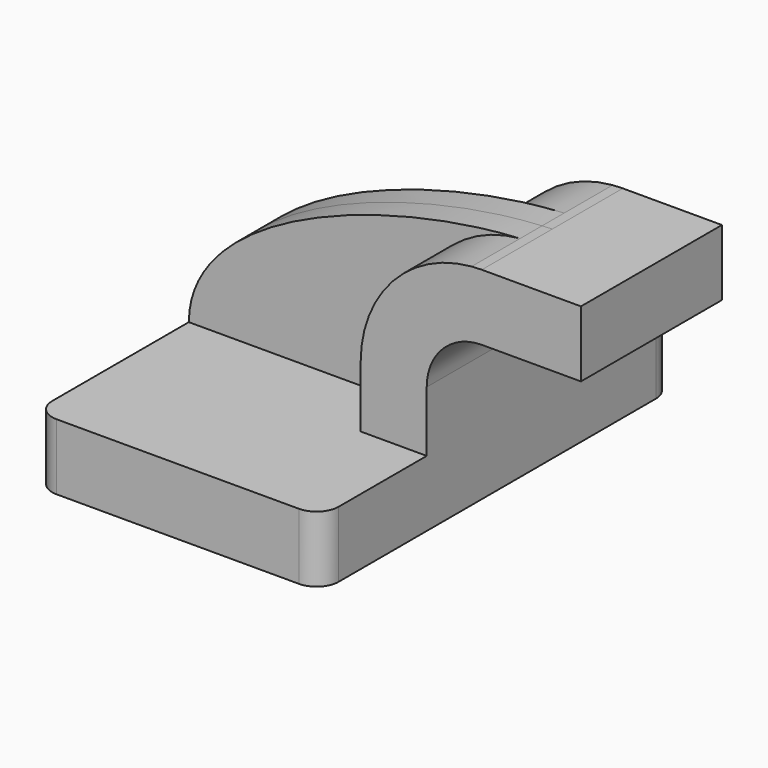
from build123d import *

# Parameters (mm, degrees)
F1_DEPTH = 63.5
F0_W     = 25.4
F0_H     = 19.05
F2_DEPTH = 25.4
F3_DEPTH = 7.9375
F4_R     = 6.35


with BuildPart() as f1:
    # F0 (on Front) → F1 (new body, symmetric)
    with BuildSketch(Plane.XZ):
        Polygon((41.275, -9.525), (41.275, 9.525), (22.225, 9.525), (-41.275, 9.525), (-41.275, -9.525), align=None)
    extrude(amount=F1_DEPTH, both=True)

    # F0 (on Front) → F2 (join, symmetric)
    with BuildSketch(Plane.XZ):
        with BuildLine():
            Line((22.225, 9.525), (41.275, 9.525))
            Line((41.275, 9.525), (41.275, 27.0002))
            ThreePointArc((41.275, 27.0002), (45.9246798487, 38.2255201513), (57.15, 42.8752))
            Line((57.15, 42.8752), (60.325, 42.8752))
            Line((60.325, 42.8752), (60.325, 61.9252))
            Line((60.325, 61.9252), (57.15, 61.9252))
            add(Edge.make_bspline(
                [(54.22326899, 61.8023532465), (55.2121587279, 61.8549706116), (56.1881793337, 61.8959521575), (57.15, 61.9252)],
                knots=[108.6829517829, 108.6829517829, 108.6829517829, 108.6829517829, 111.5045361635, 111.5045361635, 111.5045361635, 111.5045361635], degree=3))
            ThreePointArc((54.22326899, 61.8023532465), (31.440354869, 50.6385115352), (22.225, 27.0002))
            Line((22.225, 27.0002), (22.225, 9.525))
        make_face()
        with Locations((73.025, 52.4002)):
            Rectangle(F0_W, F0_H)
    extrude(amount=F2_DEPTH, both=True)

    # F0 (on Front) → F3 (join, symmetric)
    with BuildSketch(Plane.XZ):
        with BuildLine():
            Line((-41.275, 9.525), (22.225, 9.525))
            Line((22.225, 9.525), (22.225, 27.0002))
            ThreePointArc((22.225, 27.0002), (31.440354869, 50.6385115352), (54.22326899, 61.8023532465))
            add(Edge.make_bspline(
                [(-41.275, 9.525), (-41.0511784846, 40.4851844974), (16.1328058977, 59.7756158605), (54.22326899, 61.8023532465)],
                knots=[0, 0, 0, 0, 108.6829517829, 108.6829517829, 108.6829517829, 108.6829517829], degree=3))
        make_face()
    extrude(amount=F3_DEPTH, both=True)

    # F4
    f4_edges = [f1.edges().sort_by_distance(p)[0] for p in [
        (41.275, -63.5, 0),
        (-41.275, -63.5, 0),
        (-41.275, 63.5, 0),
        (41.275, 63.5, 0),
    ]]
    fillet(f4_edges, radius=F4_R)


solid = f1.part
